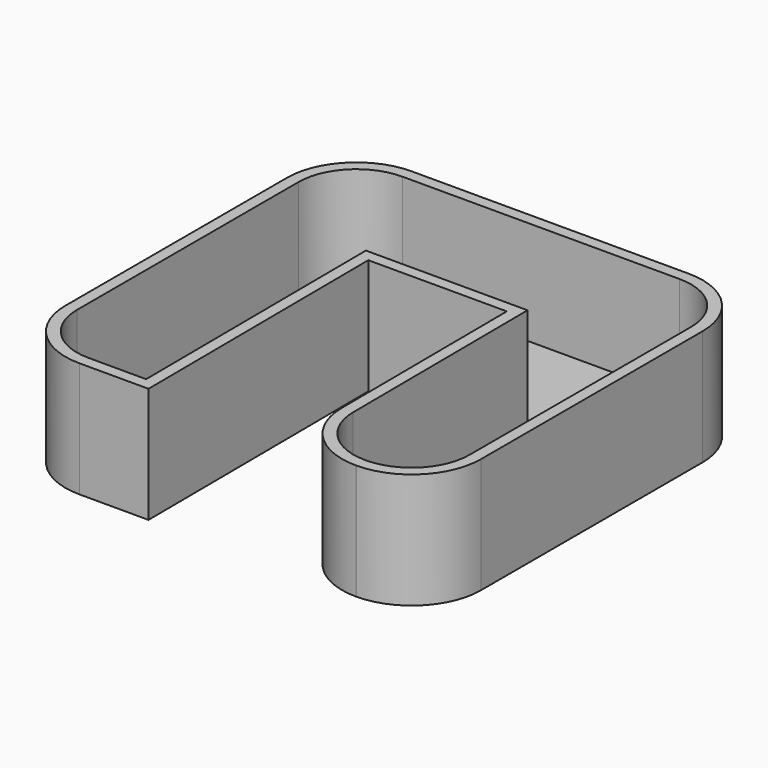
from build123d import *

# Parameters (mm, degrees)
F1_DEPTH = 25
F2_T     = -2.5


with BuildPart() as f1:
    # F0 (on Top) → F1 (new body)
    with BuildSketch(Plane.XY):
        with BuildLine():
            Line((25.1367406175, 51.758651932), (-34.8632593825, 51.758651932))
            ThreePointArc((-34.8632593825, 51.758651932), (-45.4698611003, 47.3652536497), (-49.8632593825, 36.758651932))
            Line((-49.8632593825, 36.758651932), (-49.8632593825, -23.241348068))
            ThreePointArc((-49.8632593825, -23.241348068), (-45.4698611003, -33.8479497858), (-34.8632593825, -38.241348068))
            Line((-34.8632593825, -38.241348068), (-19.8632593825, -38.241348068))
            Line((-19.8632593825, -38.241348068), (-20.2685299888, 21.758651932))
            Line((-20.2685299888, 21.758651932), (9.7314792558, 21.7572832766))
            Line((9.7314792558, 21.7572832766), (10.0361073014, -23.3426634085))
            ThreePointArc((10.0361073014, -23.3426634085), (14.4650444929, -33.8837098855), (25.0357651375, -38.241348068))
            Line((25.0357651375, -38.241348068), (25.1367406175, -38.241348068))
            ThreePointArc((25.1367406175, -38.241348068), (35.7433423353, -33.8479497858), (40.1367406175, -23.241348068))
            Line((40.1367406175, -23.241348068), (40.1367406175, 36.758651932))
            ThreePointArc((40.1367406175, 36.758651932), (35.7433423353, 47.3652536497), (25.1367406175, 51.758651932))
        make_face()
    extrude(amount=F1_DEPTH)

    # F2
    f2_openings = [f1.faces().sort_by_distance(p)[0] for p in [
        (-4.863259, 50.48586, 25),
    ]]
    offset(amount=F2_T, openings=f2_openings, kind=Kind.INTERSECTION)


solid = f1.part
